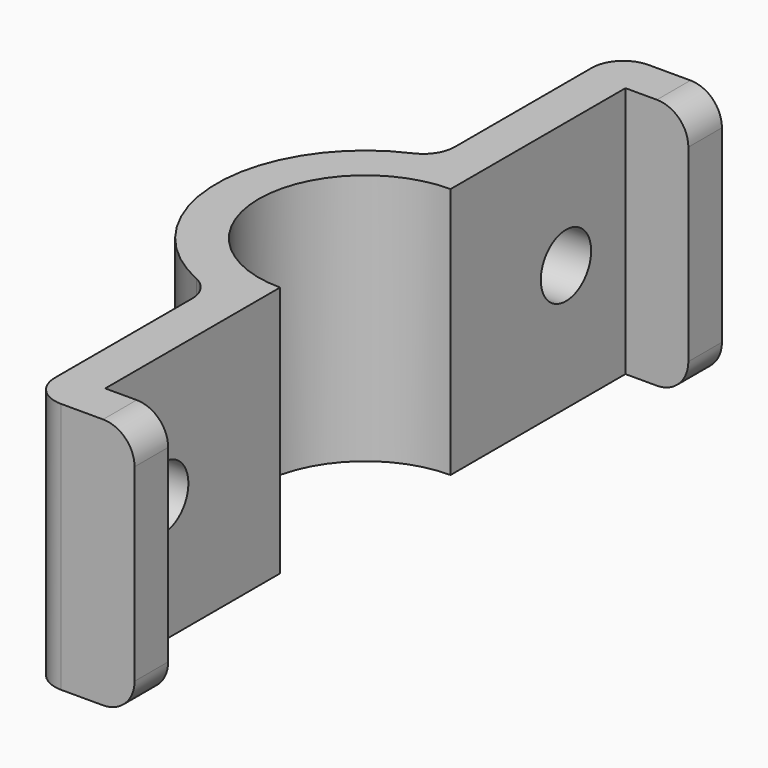
from build123d import *

# Parameters (mm, degrees)
F1_DEPTH = 76.2
F3_D     = 19.05
F4_R     = 9.525


with BuildPart() as f1:
    # F0 (on Top) → F1 (new body)
    with BuildSketch(Plane.XY):
        with BuildLine():
            Line((0, 67.9980737937), (0, 0))
            Line((0, 0), (31.75, 0))
            Line((31.75, 0), (31.75, 12.7))
            Line((31.75, 12.7), (12.7, 12.7))
            Line((12.7, 12.7), (12.7, 78.867))
            ThreePointArc((12.7, 78.867), (-19.558, 111.125), (12.7, 143.383))
            Line((12.7, 143.383), (12.7, 209.55))
            Line((12.7, 209.55), (31.75, 209.55))
            Line((31.75, 209.55), (31.75, 222.25))
            Line((31.75, 222.25), (0, 222.25))
            Line((0, 222.25), (0, 154.2519262063))
            ThreePointArc((0, 154.2519262063), (-32.258, 111.125), (0, 67.9980737937))
        make_face()
    extrude(amount=F1_DEPTH)

    # F3 (through all)
    with Locations(Plane(origin=(0, 0, 0), x_dir=(0, 1, 0), z_dir=(-1, 0, 0))):
        with Locations((187.0478298216, -38.1), (34.6478298216, -38.1)):
            Hole(F3_D / 2)

    # F4
    f4_edges = [f1.edges().sort_by_distance(p)[0] for p in [
        (0, 67.998074, 38.1),
        (0, 154.251926, 38.1),
        (0, 0, 38.1),
        (31.75, 6.35, 76.2),
        (31.75, 6.35, 0),
        (31.75, 215.9, 76.2),
        (31.75, 215.9, 0),
        (0, 222.25, 38.1),
    ]]
    fillet(f4_edges, radius=F4_R)


solid = f1.part
